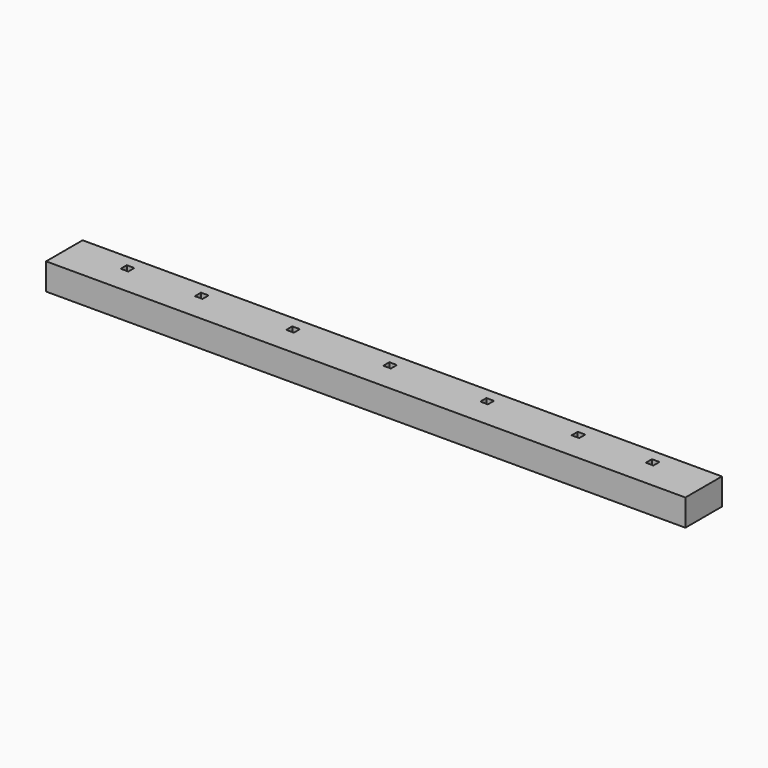
from build123d import *

# Parameters (mm, degrees)
F0_W     = 1066.8
F0_H     = 76.2
F1_DEPTH = 44.45
F2_W     = 990.6
F2_H     = 19.05
F3_DEPTH = 50.8
F4_W     = 12.7
F4_H     = 12.7
F5_DEPTH = 44.451


with BuildPart() as f1:
    # F0 (on Top) → F1 (new body)
    with BuildSketch(Plane.XY):
        with Locations((406.253795, -0.947985)):
            Rectangle(F0_W, F0_H)
    extrude(amount=F1_DEPTH)

    # F2 (on face) → F3 (cut)
    with BuildSketch(Plane(origin=(0, 37.152015, 0), x_dir=(-1, 0, 0), z_dir=(0, 1, 0))):
        with Locations((-406.253795, 22.225)):
            Rectangle(F2_W, F2_H)
    extrude(amount=-F3_DEPTH, mode=Mode.SUBTRACT)

    # F4 (on face) → F5 (cut, through all)
    with BuildSketch(Plane(origin=(0, 0, 0), x_dir=(1, 0, 0), z_dir=(0, 0, -1))):
        with Locations((-31.896205, -11.752015)):
            Rectangle(F4_W, F4_H)
        with Locations((91.928795, -11.752015)):
            Rectangle(F4_W, F4_H)
        with Locations((244.328795, -11.752015)):
            Rectangle(F4_W, F4_H)
        with Locations((406.253795, -11.752015)):
            Rectangle(F4_W, F4_H)
        with Locations((568.178795, -11.752015)):
            Rectangle(F4_W, F4_H)
        with Locations((720.578795, -11.752015)):
            Rectangle(F4_W, F4_H)
        with Locations((844.403795, -11.752015)):
            Rectangle(F4_W, F4_H)
    extrude(amount=-F5_DEPTH, mode=Mode.SUBTRACT)


solid = f1.part
